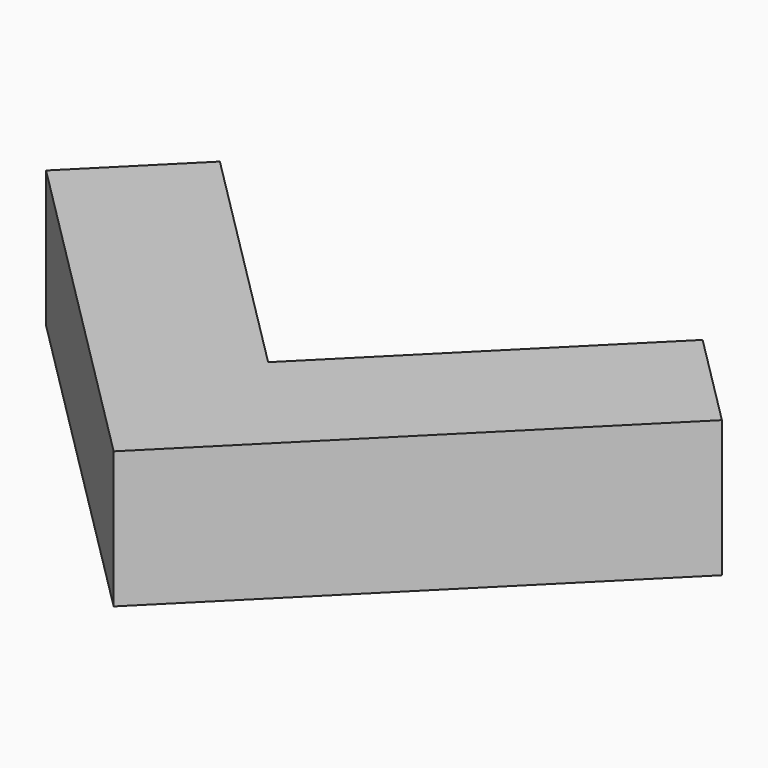
from build123d import *

# Parameters (mm, degrees)
BOX177_W                  = 3.5
BOX177_H                  = 1
BOX177_DEPTH              = 1
BOX176_W                  = 3.5
BOX176_H                  = 1
BOX176_DEPTH              = 1
FUSION034_PLACEMENT_ANGLE = 45


with BuildPart() as cube145:
    # Box177 → Box177 (new body)
    with BuildSketch(Plane.XY):
        with Locations((1.75, 0.5)):
            Rectangle(BOX177_W, BOX177_H)
    extrude(amount=BOX177_DEPTH)


with BuildPart() as obj1:
    # Box176 → Box176 (new body)
    with BuildSketch(Plane(origin=(1, 0, 0), x_dir=(0, 1, 0), z_dir=(0, 0, 1))):
        with Locations((1.75, 0.5)):
            Rectangle(BOX176_W, BOX176_H)
    extrude(amount=BOX176_DEPTH)

    # Fusion034: union Cube145
    add(cube145.part)


with BuildPart() as obj1_1:
    # Fusion034 placement: moved
    add(obj1.part.moved(Location((0, -8, 0))).rotate(Axis((0, -8, 0), (0, 0, 1)), FUSION034_PLACEMENT_ANGLE))


solid = obj1_1.part
